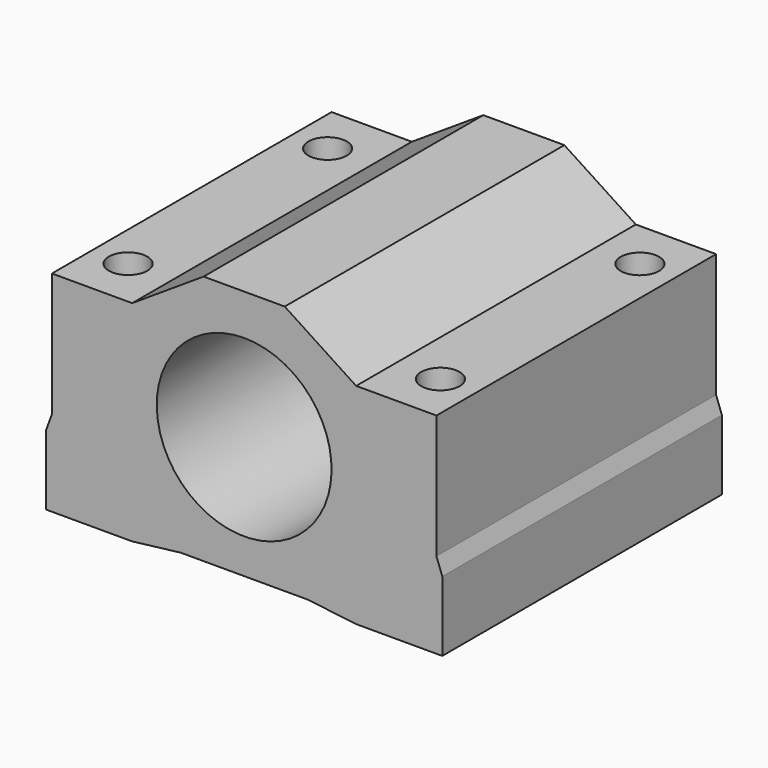
from build123d import *

# Parameters (mm, degrees)
F1_DEPTH = 15
F3_D     = 3.3


with BuildPart() as f1:
    # F0 (on Front) → F1 (new body, symmetric)
    with BuildSketch(Plane.XZ):
        with BuildLine():
            Line((-5.4519269615, 0), (0, 0))
            Line((0, 0), (0, 3))
            ThreePointArc((0, 3), (-7.5, 10.5), (0, 18))
            Line((0, 18), (0, 21.5))
            Line((0, 21.5), (-3.4802674782, 21.5))
            Line((-3.4802674782, 21.5), (-9.6111802198, 17.5))
            Line((-9.6111802198, 17.5), (-16.5, 17.5))
            Line((-16.5, 17.5), (-16.5, 6.8754809164))
            Line((-16.5, 6.8754809164), (-17, 5.5))
            Line((-17, 5.5), (-17, -0.5))
            Line((-17, -0.5), (-9.6111802198, -0.5))
            Line((-9.6111802198, -0.5), (-5.4519269615, 0))
        make_face()
        with BuildLine():
            Line((0, 3), (0, 0))
            Line((0, 0), (5.4519269615, 0))
            Line((5.4519269615, 0), (9.6111802198, -0.5))
            Line((9.6111802198, -0.5), (17, -0.5))
            Line((17, -0.5), (17, 5.5))
            Line((17, 5.5), (16.5, 6.8754809164))
            Line((16.5, 6.8754809164), (16.5, 17.5))
            Line((16.5, 17.5), (9.6111802198, 17.5))
            Line((9.6111802198, 17.5), (3.4802674782, 21.5))
            Line((3.4802674782, 21.5), (0, 21.5))
            Line((0, 21.5), (0, 18))
            ThreePointArc((0, 18), (7.5, 10.5), (0, 3))
        make_face()
    extrude(amount=F1_DEPTH, both=True)

    # F3 (through all)
    with Locations(Plane(origin=(0, 0, -0.5), x_dir=(1, 0, 0), z_dir=(0, 0, -1))):
        with Locations((-13.4, 10.7), (-13.4, -10.7), (13.4, -10.7), (13.4, 10.7)):
            Hole(F3_D / 2)


solid = f1.part
